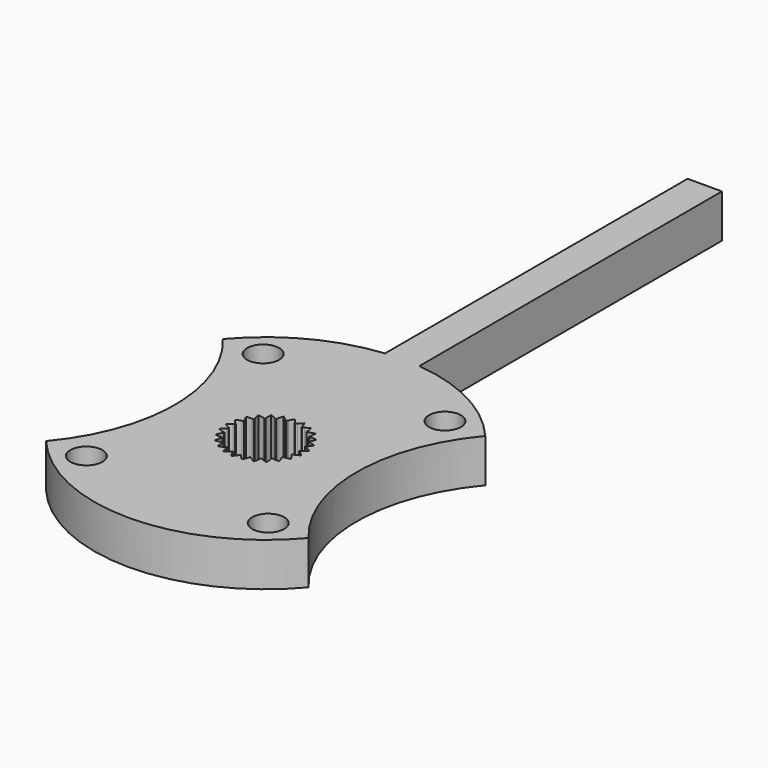
from build123d import *

# Parameters (mm, degrees)
PAD022_DEPTH            = 3.8
POCKET059_DEPTH         = 3.801
SKETCH089_R             = 1.4
POCKET060_DEPTH         = 3.801
SKETCH088_W             = 3
SKETCH088_H             = 34
PAD021_DEPTH            = 3.8
BODY011_ROLL_ANGLE      = -90
BODY011_PLACEMENT_ANGLE = -180


with BuildPart() as part:
    # CopySketch078 → Pad022 (new body)
    with BuildSketch(Plane(origin=(0, 0, 0), x_dir=(1, 0, 0), z_dir=(0, 1, 0))):
        with BuildLine():
            ThreePointArc((11.475, 9.660454), (0, 15), (-11.475, 9.660454))
            ThreePointArc((-11.475, -9.660454), (-7.95, 0), (-11.475, 9.660454))
            ThreePointArc((-11.475, -9.660454), (0, -15), (11.475, -9.660454))
            ThreePointArc((11.475, 9.660454), (7.95, 0), (11.475, -9.660454))
        make_face()
    extrude(amount=PAD022_DEPTH)

    # InvoluteGear002 (on Face6 of Pad022) → Pocket059 (cut, through all)
    with BuildSketch(Plane(origin=(0, 3.8, 0), x_dir=(1, 0, 0), z_dir=(0, 1, 0))):
        with BuildLine():
            add(Edge.make_bspline(
                [(2.935686, -0.341652), (2.980578, -0.323699), (3.028803, -0.301734), (3.079774, -0.27497)],
                knots=[0, 0, 0, 0, 1, 1, 1, 1], degree=3))
            add(Edge.make_bspline(
                [(3.079774, -0.27497), (3.19844, -0.212627), (3.33132, -0.124801), (3.469601, -0.002687)],
                knots=[0, 0, 0, 0, 1, 1, 1, 1], degree=3))
            ThreePointArc((3.469601, -0.002687), (3.469602, 0), (3.469601, 0.002687))
            add(Edge.make_bspline(
                [(3.469601, 0.002687), (3.33132, 0.124801), (3.19844, 0.212627), (3.079774, 0.27497)],
                knots=[0, 0, 0, 0, 1, 1, 1, 1], degree=3))
            add(Edge.make_bspline(
                [(3.079774, 0.27497), (3.028803, 0.301734), (2.980578, 0.323699), (2.93569, 0.341649)],
                knots=[0, 0, 0, 0, 1, 1, 1, 1], degree=3))
            ThreePointArc((2.93569, 0.341649), (2.92763, 0.369844), (2.928422, 0.399157))
            add(Edge.make_bspline(
                [(2.928422, 0.399157), (2.967439, 0.42771), (3.008686, 0.460978), (3.051399, 0.499577)],
                knots=[0, 0, 0, 0, 1, 1, 1, 1], degree=3))
            add(Edge.make_bspline(
                [(3.051399, 0.499577), (3.150833, 0.589473), (3.257697, 0.707585), (3.361265, 0.860253)],
                knots=[0, 0, 0, 0, 1, 1, 1, 1], degree=3))
            ThreePointArc((3.361265, 0.860253), (3.360598, 0.862855), (3.359929, 0.865457))
            add(Edge.make_bspline(
                [(3.359929, 0.865457), (3.195624, 0.949346), (3.045077, 1.001366), (2.914635, 1.03224)],
                knots=[0, 0, 0, 0, 1, 1, 1, 1], degree=3))
            add(Edge.make_bspline(
                [(2.914635, 1.03224), (2.858609, 1.045487), (2.806437, 1.054769), (2.758495, 1.060992)],
                knots=[0, 0, 0, 0, 1, 1, 1, 1], degree=3))
            ThreePointArc((2.758495, 1.060992), (2.743677, 1.086297), (2.737154, 1.114886))
            add(Edge.make_bspline(
                [(2.737154, 1.114886), (2.767844, 1.152245), (2.799522, 1.194725), (2.831294, 1.242734)],
                knots=[0, 0, 0, 0, 1, 1, 1, 1], degree=3))
            add(Edge.make_bspline(
                [(2.831294, 1.242734), (2.905248, 1.354534), (2.979382, 1.495511), (3.041729, 1.669139)],
                knots=[0, 0, 0, 0, 1, 1, 1, 1], degree=3))
            ThreePointArc((3.041729, 1.669139), (3.040436, 1.671494), (3.03914, 1.673847))
            add(Edge.make_bspline(
                [(3.03914, 1.673847), (2.859135, 1.71424), (2.700381, 1.727187), (2.566358, 1.724651)],
                knots=[0, 0, 0, 0, 1, 1, 1, 1], degree=3))
            add(Edge.make_bspline(
                [(2.566358, 1.724651), (2.508799, 1.723549), (2.455957, 1.719564), (2.407974, 1.713669)],
                knots=[0, 0, 0, 0, 1, 1, 1, 1], degree=3))
            ThreePointArc((2.407974, 1.713669), (2.387328, 1.734493), (2.3739, 1.760562))
            add(Edge.make_bspline(
                [(2.3739, 1.760562), (2.394335, 1.80438), (2.414453, 1.853403), (2.433289, 1.907806)],
                knots=[0, 0, 0, 0, 1, 1, 1, 1], degree=3))
            add(Edge.make_bspline(
                [(2.433289, 1.907806), (2.477116, 2.034485), (2.51386, 2.189469), (2.53107, 2.373147)],
                knots=[0, 0, 0, 0, 1, 1, 1, 1], degree=3))
            ThreePointArc((2.53107, 2.373147), (2.529231, 2.375106), (2.527391, 2.377064))
            add(Edge.make_bspline(
                [(2.527391, 2.377064), (2.342995, 2.371422), (2.186009, 2.344481), (2.056828, 2.308695)],
                knots=[0, 0, 0, 0, 1, 1, 1, 1], degree=3))
            add(Edge.make_bspline(
                [(2.056828, 2.308695), (2.001351, 2.293313), (1.951161, 2.276313), (1.906151, 2.25867)],
                knots=[0, 0, 0, 0, 1, 1, 1, 1], degree=3))
            ThreePointArc((1.906151, 2.25867), (1.880975, 2.273705), (1.861486, 2.295616))
            add(Edge.make_bspline(
                [(1.861486, 2.295616), (1.870382, 2.343139), (1.877676, 2.395626), (1.88239, 2.453003)],
                knots=[0, 0, 0, 0, 1, 1, 1, 1], degree=3))
            add(Edge.make_bspline(
                [(1.88239, 2.453003), (1.893337, 2.586601), (1.890384, 2.745855), (1.861374, 2.928042)],
                knots=[0, 0, 0, 0, 1, 1, 1, 1], degree=3))
            ThreePointArc((1.861374, 2.928042), (1.859106, 2.929482), (1.856837, 2.930921))
            add(Edge.make_bspline(
                [(1.856837, 2.930921), (1.679637, 2.879599), (1.534283, 2.814463), (1.41806, 2.747675)],
                knots=[0, 0, 0, 0, 1, 1, 1, 1], degree=3))
            add(Edge.make_bspline(
                [(1.41806, 2.747675), (1.368151, 2.71898), (1.323765, 2.690032), (1.284557, 2.66175)],
                knots=[0, 0, 0, 0, 1, 1, 1, 1], degree=3))
            ThreePointArc((1.284557, 2.66175), (1.256433, 2.670052), (1.232107, 2.686427))
            add(Edge.make_bspline(
                [(1.232107, 2.686427), (1.228906, 2.73467), (1.222918, 2.787322), (1.213215, 2.844069)],
                knots=[0, 0, 0, 0, 1, 1, 1, 1], degree=3))
            add(Edge.make_bspline(
                [(1.213215, 2.844069), (1.190592, 2.976192), (1.148128, 3.129708), (1.074721, 3.298957)],
                knots=[0, 0, 0, 0, 1, 1, 1, 1], degree=3))
            ThreePointArc((1.074721, 3.298957), (1.072166, 3.299788), (1.069611, 3.300617))
            add(Edge.make_bspline(
                [(1.069611, 3.300617), (0.910741, 3.20684), (0.786152, 3.107603), (0.69019, 3.014009)],
                knots=[0, 0, 0, 0, 1, 1, 1, 1], degree=3))
            add(Edge.make_bspline(
                [(0.69019, 3.014009), (0.648985, 2.973804), (0.613193, 2.934727), (0.58225, 2.897583)],
                knots=[0, 0, 0, 0, 1, 1, 1, 1], degree=3))
            ThreePointArc((0.58225, 2.897583), (0.552945, 2.89863), (0.525311, 2.908441))
            add(Edge.make_bspline(
                [(0.525311, 2.908441), (0.510213, 2.954372), (0.491319, 3.00388), (0.467808, 3.056431)],
                knots=[0, 0, 0, 0, 1, 1, 1, 1], degree=3))
            add(Edge.make_bspline(
                [(0.467808, 3.056431), (0.413039, 3.178778), (0.33373, 3.31691), (0.220539, 3.462586)],
                knots=[0, 0, 0, 0, 1, 1, 1, 1], degree=3))
            ThreePointArc((0.220539, 3.462586), (0.217858, 3.462756), (0.215177, 3.462923))
            add(Edge.make_bspline(
                [(0.215177, 3.462923), (0.08462, 3.332583), (-0.011376, 3.20548), (-0.081047, 3.090962)],
                knots=[0, 0, 0, 0, 1, 1, 1, 1], degree=3))
            add(Edge.make_bspline(
                [(-0.081047, 3.090962), (-0.110959, 3.041772), (-0.135908, 2.995022), (-0.156642, 2.95135)],
                knots=[0, 0, 0, 0, 1, 1, 1, 1], degree=3))
            ThreePointArc((-0.156642, 2.95135), (-0.185287, 2.945076), (-0.214492, 2.947706))
            add(Edge.make_bspline(
                [(-0.214492, 2.947706), (-0.240539, 2.988439), (-0.271151, 3.031694), (-0.306992, 3.076747)],
                knots=[0, 0, 0, 0, 1, 1, 1, 1], degree=3))
            add(Edge.make_bspline(
                [(-0.306992, 3.076747), (-0.390467, 3.181629), (-0.501636, 3.295699), (-0.647499, 3.408648)],
                knots=[0, 0, 0, 0, 1, 1, 1, 1], degree=3))
            ThreePointArc((-0.647499, 3.408648), (-0.650139, 3.408146), (-0.652777, 3.407642))
            add(Edge.make_bspline(
                [(-0.652777, 3.407642), (-0.746818, 3.248928), (-0.808189, 3.101945), (-0.847192, 2.973698)],
                knots=[0, 0, 0, 0, 1, 1, 1, 1], degree=3))
            add(Edge.make_bspline(
                [(-0.847192, 2.973698), (-0.863931, 2.918615), (-0.87647, 2.867129), (-0.885691, 2.819672)],
                knots=[0, 0, 0, 0, 1, 1, 1, 1], degree=3))
            ThreePointArc((-0.885691, 2.819672), (-0.911876, 2.806472), (-0.940819, 2.801757))
            add(Edge.make_bspline(
                [(-0.940819, 2.801757), (-0.976177, 2.834732), (-1.016584, 2.869015), (-1.062503, 2.903739)],
                knots=[0, 0, 0, 0, 1, 1, 1, 1], degree=3))
            add(Edge.make_bspline(
                [(-1.062503, 2.903739), (-1.169439, 2.984567), (-1.305483, 3.067406), (-1.474853, 3.140533)],
                knots=[0, 0, 0, 0, 1, 1, 1, 1], degree=3))
            ThreePointArc((-1.474853, 3.140533), (-1.477285, 3.13939), (-1.479715, 3.138245))
            add(Edge.make_bspline(
                [(-1.479715, 3.138245), (-1.531331, 2.961131), (-1.55422, 2.803503), (-1.560104, 2.669586)],
                knots=[0, 0, 0, 0, 1, 1, 1, 1], degree=3))
            add(Edge.make_bspline(
                [(-1.560104, 2.669586), (-1.562619, 2.612071), (-1.56196, 2.559083), (-1.55909, 2.510825)],
                knots=[0, 0, 0, 0, 1, 1, 1, 1], degree=3))
            ThreePointArc((-1.55909, 2.510825), (-1.581169, 2.491527), (-1.60803, 2.479762))
            add(Edge.make_bspline(
                [(-1.60803, 2.479762), (-1.650478, 2.502909), (-1.698141, 2.526065), (-1.751254, 2.548279)],
                knots=[0, 0, 0, 0, 1, 1, 1, 1], degree=3))
            add(Edge.make_bspline(
                [(-1.751254, 2.548279), (-1.874931, 2.599974), (-2.027302, 2.646378), (-2.209537, 2.675086)],
                knots=[0, 0, 0, 0, 1, 1, 1, 1], degree=3))
            ThreePointArc((-2.209537, 2.675086), (-2.211608, 2.673374), (-2.213677, 2.671661))
            add(Edge.make_bspline(
                [(-2.213677, 2.671661), (-2.219625, 2.487275), (-2.202594, 2.328907), (-2.17499, 2.197734)],
                knots=[0, 0, 0, 0, 1, 1, 1, 1], degree=3))
            add(Edge.make_bspline(
                [(-2.17499, 2.197734), (-2.163122, 2.1414), (-2.149307, 2.090241), (-2.134525, 2.044213)],
                knots=[0, 0, 0, 0, 1, 1, 1, 1], degree=3))
            ThreePointArc((-2.134525, 2.044213), (-2.151111, 2.02003), (-2.174202, 2.001955))
            add(Edge.make_bspline(
                [(-2.174202, 2.001955), (-2.221073, 2.013818), (-2.272998, 2.024394), (-2.329966, 2.032701)],
                knots=[0, 0, 0, 0, 1, 1, 1, 1], degree=3))
            add(Edge.make_bspline(
                [(-2.329966, 2.032701), (-2.462613, 2.052015), (-2.621738, 2.059067), (-2.805387, 2.041554)],
                knots=[0, 0, 0, 0, 1, 1, 1, 1], degree=3))
            ThreePointArc((-2.805387, 2.041554), (-2.806967, 2.039381), (-2.808545, 2.037207))
            add(Edge.make_bspline(
                [(-2.808545, 2.037207), (-2.768451, 1.857134), (-2.712571, 1.707977), (-2.653213, 1.58779)],
                knots=[0, 0, 0, 0, 1, 1, 1, 1], degree=3))
            add(Edge.make_bspline(
                [(-2.653213, 1.58779), (-2.627708, 1.536178), (-2.601604, 1.490062), (-2.57584, 1.449155)],
                knots=[0, 0, 0, 0, 1, 1, 1, 1], degree=3))
            ThreePointArc((-2.57584, 1.449155), (-2.585891, 1.421608), (-2.603762, 1.398358))
            add(Edge.make_bspline(
                [(-2.603762, 1.398358), (-2.65211, 1.398192), (-2.705034, 1.395522), (-2.762278, 1.389401)],
                knots=[0, 0, 0, 0, 1, 1, 1, 1], degree=3))
            add(Edge.make_bspline(
                [(-2.762278, 1.389401), (-2.895561, 1.37512), (-3.051441, 1.342378), (-3.224965, 1.279743)],
                knots=[0, 0, 0, 0, 1, 1, 1, 1], degree=3))
            ThreePointArc((-3.224965, 1.279743), (-3.225955, 1.277246), (-3.226943, 1.274748))
            add(Edge.make_bspline(
                [(-3.226943, 1.274748), (-3.143326, 1.110303), (-3.052108, 0.979729), (-2.964725, 0.87808)],
                knots=[0, 0, 0, 0, 1, 1, 1, 1], degree=3))
            add(Edge.make_bspline(
                [(-2.964725, 0.87808), (-2.927185, 0.834431), (-2.890433, 0.796256), (-2.855305, 0.763042)],
                knots=[0, 0, 0, 0, 1, 1, 1, 1], degree=3))
            ThreePointArc((-2.855305, 0.763042), (-2.85819, 0.73386), (-2.869717, 0.706897))
            add(Edge.make_bspline(
                [(-2.869717, 0.706897), (-2.916505, 0.694712), (-2.967102, 0.678965), (-3.021026, 0.6588)],
                knots=[0, 0, 0, 0, 1, 1, 1, 1], degree=3))
            add(Edge.make_bspline(
                [(-3.021026, 0.6588), (-3.14657, 0.611821), (-3.28941, 0.541342), (-3.441906, 0.437522)],
                knots=[0, 0, 0, 0, 1, 1, 1, 1], degree=3))
            ThreePointArc((-3.441906, 0.437522), (-3.442243, 0.434856), (-3.442579, 0.432191))
            add(Edge.make_bspline(
                [(-3.442579, 0.432191), (-3.320693, 0.293708), (-3.199869, 0.189921), (-3.089952, 0.113196)],
                knots=[0, 0, 0, 0, 1, 1, 1, 1], degree=3))
            add(Edge.make_bspline(
                [(-3.089952, 0.113196), (-3.042737, 0.080255), (-2.997646, 0.052419), (-2.955362, 0.028984)],
                knots=[0, 0, 0, 0, 1, 1, 1, 1], degree=3))
            ThreePointArc((-2.955362, 0.028984), (-2.950899, 2e-06), (-2.955358, -0.028981))
            add(Edge.make_bspline(
                [(-2.955358, -0.028981), (-2.997646, -0.052419), (-3.042737, -0.080255), (-3.089952, -0.113196)],
                knots=[0, 0, 0, 0, 1, 1, 1, 1], degree=3))
            add(Edge.make_bspline(
                [(-3.089952, -0.113196), (-3.199869, -0.189921), (-3.320693, -0.293708), (-3.442579, -0.432191)],
                knots=[0, 0, 0, 0, 1, 1, 1, 1], degree=3))
            ThreePointArc((-3.442579, -0.432191), (-3.442243, -0.434856), (-3.441906, -0.437522))
            add(Edge.make_bspline(
                [(-3.441906, -0.437522), (-3.28941, -0.541342), (-3.14657, -0.611821), (-3.021026, -0.6588)],
                knots=[0, 0, 0, 0, 1, 1, 1, 1], degree=3))
            add(Edge.make_bspline(
                [(-3.021026, -0.6588), (-2.967102, -0.678965), (-2.916505, -0.694712), (-2.869721, -0.706895)],
                knots=[0, 0, 0, 0, 1, 1, 1, 1], degree=3))
            ThreePointArc((-2.869721, -0.706895), (-2.858191, -0.733857), (-2.855303, -0.763038))
            add(Edge.make_bspline(
                [(-2.855303, -0.763038), (-2.890433, -0.796256), (-2.927185, -0.834431), (-2.964725, -0.87808)],
                knots=[0, 0, 0, 0, 1, 1, 1, 1], degree=3))
            add(Edge.make_bspline(
                [(-2.964725, -0.87808), (-3.052108, -0.979729), (-3.143326, -1.110303), (-3.226943, -1.274748)],
                knots=[0, 0, 0, 0, 1, 1, 1, 1], degree=3))
            ThreePointArc((-3.226943, -1.274748), (-3.225955, -1.277246), (-3.224965, -1.279743))
            add(Edge.make_bspline(
                [(-3.224965, -1.279743), (-3.051441, -1.342378), (-2.895561, -1.37512), (-2.762278, -1.389401)],
                knots=[0, 0, 0, 0, 1, 1, 1, 1], degree=3))
            add(Edge.make_bspline(
                [(-2.762278, -1.389401), (-2.705034, -1.395522), (-2.65211, -1.398192), (-2.603766, -1.398357)],
                knots=[0, 0, 0, 0, 1, 1, 1, 1], degree=3))
            ThreePointArc((-2.603766, -1.398357), (-2.585893, -1.421605), (-2.575838, -1.449151))
            add(Edge.make_bspline(
                [(-2.575838, -1.449151), (-2.601604, -1.490062), (-2.627708, -1.536178), (-2.653213, -1.58779)],
                knots=[0, 0, 0, 0, 1, 1, 1, 1], degree=3))
            add(Edge.make_bspline(
                [(-2.653213, -1.58779), (-2.712571, -1.707977), (-2.768451, -1.857134), (-2.808545, -2.037207)],
                knots=[0, 0, 0, 0, 1, 1, 1, 1], degree=3))
            ThreePointArc((-2.808545, -2.037207), (-2.806967, -2.039381), (-2.805387, -2.041554))
            add(Edge.make_bspline(
                [(-2.805387, -2.041554), (-2.621738, -2.059067), (-2.462613, -2.052015), (-2.329966, -2.032701)],
                knots=[0, 0, 0, 0, 1, 1, 1, 1], degree=3))
            add(Edge.make_bspline(
                [(-2.329966, -2.032701), (-2.272998, -2.024394), (-2.221073, -2.013818), (-2.174207, -2.001956)],
                knots=[0, 0, 0, 0, 1, 1, 1, 1], degree=3))
            ThreePointArc((-2.174207, -2.001956), (-2.151114, -2.020028), (-2.134524, -2.044208))
            add(Edge.make_bspline(
                [(-2.134524, -2.044208), (-2.149307, -2.090241), (-2.163122, -2.1414), (-2.17499, -2.197734)],
                knots=[0, 0, 0, 0, 1, 1, 1, 1], degree=3))
            add(Edge.make_bspline(
                [(-2.17499, -2.197734), (-2.202594, -2.328907), (-2.219625, -2.487275), (-2.213677, -2.671661)],
                knots=[0, 0, 0, 0, 1, 1, 1, 1], degree=3))
            ThreePointArc((-2.213677, -2.671661), (-2.211608, -2.673374), (-2.209537, -2.675086))
            add(Edge.make_bspline(
                [(-2.209537, -2.675086), (-2.027302, -2.646378), (-1.874931, -2.599974), (-1.751254, -2.548279)],
                knots=[0, 0, 0, 0, 1, 1, 1, 1], degree=3))
            add(Edge.make_bspline(
                [(-1.751254, -2.548279), (-1.698141, -2.526065), (-1.650478, -2.502909), (-1.608034, -2.479764)],
                knots=[0, 0, 0, 0, 1, 1, 1, 1], degree=3))
            ThreePointArc((-1.608034, -2.479764), (-1.581172, -2.491525), (-1.55909, -2.51082))
            add(Edge.make_bspline(
                [(-1.55909, -2.51082), (-1.56196, -2.559083), (-1.562619, -2.612071), (-1.560104, -2.669586)],
                knots=[0, 0, 0, 0, 1, 1, 1, 1], degree=3))
            add(Edge.make_bspline(
                [(-1.560104, -2.669586), (-1.55422, -2.803503), (-1.531331, -2.961131), (-1.479715, -3.138245)],
                knots=[0, 0, 0, 0, 1, 1, 1, 1], degree=3))
            ThreePointArc((-1.479715, -3.138245), (-1.477285, -3.13939), (-1.474853, -3.140533))
            add(Edge.make_bspline(
                [(-1.474853, -3.140533), (-1.305483, -3.067406), (-1.169439, -2.984567), (-1.062503, -2.903739)],
                knots=[0, 0, 0, 0, 1, 1, 1, 1], degree=3))
            add(Edge.make_bspline(
                [(-1.062503, -2.903739), (-1.016584, -2.869015), (-0.976177, -2.834732), (-0.940822, -2.801759)],
                knots=[0, 0, 0, 0, 1, 1, 1, 1], degree=3))
            ThreePointArc((-0.940822, -2.801759), (-0.911879, -2.806471), (-0.885693, -2.819668))
            add(Edge.make_bspline(
                [(-0.885693, -2.819668), (-0.87647, -2.867129), (-0.863931, -2.918615), (-0.847192, -2.973698)],
                knots=[0, 0, 0, 0, 1, 1, 1, 1], degree=3))
            add(Edge.make_bspline(
                [(-0.847192, -2.973698), (-0.808189, -3.101945), (-0.746818, -3.248928), (-0.652777, -3.407642)],
                knots=[0, 0, 0, 0, 1, 1, 1, 1], degree=3))
            ThreePointArc((-0.652777, -3.407642), (-0.650139, -3.408146), (-0.647499, -3.408648))
            add(Edge.make_bspline(
                [(-0.647499, -3.408648), (-0.501636, -3.295699), (-0.390467, -3.181629), (-0.306992, -3.076747)],
                knots=[0, 0, 0, 0, 1, 1, 1, 1], degree=3))
            add(Edge.make_bspline(
                [(-0.306992, -3.076747), (-0.271151, -3.031694), (-0.240539, -2.988439), (-0.214496, -2.94771)],
                knots=[0, 0, 0, 0, 1, 1, 1, 1], degree=3))
            ThreePointArc((-0.214496, -2.94771), (-0.18529, -2.945075), (-0.156645, -2.951346))
            add(Edge.make_bspline(
                [(-0.156645, -2.951346), (-0.135908, -2.995022), (-0.110959, -3.041772), (-0.081047, -3.090962)],
                knots=[0, 0, 0, 0, 1, 1, 1, 1], degree=3))
            add(Edge.make_bspline(
                [(-0.081047, -3.090962), (-0.011376, -3.20548), (0.08462, -3.332583), (0.215177, -3.462923)],
                knots=[0, 0, 0, 0, 1, 1, 1, 1], degree=3))
            ThreePointArc((0.215177, -3.462923), (0.217858, -3.462756), (0.220539, -3.462586))
            add(Edge.make_bspline(
                [(0.220539, -3.462586), (0.33373, -3.31691), (0.413039, -3.178778), (0.467808, -3.056431)],
                knots=[0, 0, 0, 0, 1, 1, 1, 1], degree=3))
            add(Edge.make_bspline(
                [(0.467808, -3.056431), (0.491319, -3.00388), (0.510213, -2.954372), (0.525309, -2.908445)],
                knots=[0, 0, 0, 0, 1, 1, 1, 1], degree=3))
            ThreePointArc((0.525309, -2.908445), (0.552942, -2.89863), (0.582247, -2.89758))
            add(Edge.make_bspline(
                [(0.582247, -2.89758), (0.613193, -2.934727), (0.648985, -2.973804), (0.69019, -3.014009)],
                knots=[0, 0, 0, 0, 1, 1, 1, 1], degree=3))
            add(Edge.make_bspline(
                [(0.69019, -3.014009), (0.786152, -3.107603), (0.910741, -3.20684), (1.069611, -3.300617)],
                knots=[0, 0, 0, 0, 1, 1, 1, 1], degree=3))
            ThreePointArc((1.069611, -3.300617), (1.072166, -3.299788), (1.074721, -3.298957))
            add(Edge.make_bspline(
                [(1.074721, -3.298957), (1.148128, -3.129708), (1.190592, -2.976192), (1.213215, -2.844069)],
                knots=[0, 0, 0, 0, 1, 1, 1, 1], degree=3))
            add(Edge.make_bspline(
                [(1.213215, -2.844069), (1.222918, -2.787322), (1.228906, -2.73467), (1.232106, -2.686432)],
                knots=[0, 0, 0, 0, 1, 1, 1, 1], degree=3))
            ThreePointArc((1.232106, -2.686432), (1.25643, -2.670054), (1.284553, -2.661748))
            add(Edge.make_bspline(
                [(1.284553, -2.661748), (1.323765, -2.690032), (1.368151, -2.71898), (1.41806, -2.747675)],
                knots=[0, 0, 0, 0, 1, 1, 1, 1], degree=3))
            add(Edge.make_bspline(
                [(1.41806, -2.747675), (1.534283, -2.814463), (1.679637, -2.879599), (1.856837, -2.930921)],
                knots=[0, 0, 0, 0, 1, 1, 1, 1], degree=3))
            ThreePointArc((1.856837, -2.930921), (1.859106, -2.929482), (1.861374, -2.928042))
            add(Edge.make_bspline(
                [(1.861374, -2.928042), (1.890384, -2.745855), (1.893337, -2.586601), (1.88239, -2.453003)],
                knots=[0, 0, 0, 0, 1, 1, 1, 1], degree=3))
            add(Edge.make_bspline(
                [(1.88239, -2.453003), (1.877676, -2.395626), (1.870382, -2.343139), (1.861486, -2.29562)],
                knots=[0, 0, 0, 0, 1, 1, 1, 1], degree=3))
            ThreePointArc((1.861486, -2.29562), (1.880972, -2.273708), (1.906146, -2.258669))
            add(Edge.make_bspline(
                [(1.906146, -2.258669), (1.951161, -2.276313), (2.001351, -2.293313), (2.056828, -2.308695)],
                knots=[0, 0, 0, 0, 1, 1, 1, 1], degree=3))
            add(Edge.make_bspline(
                [(2.056828, -2.308695), (2.186009, -2.344481), (2.342995, -2.371422), (2.527391, -2.377064)],
                knots=[0, 0, 0, 0, 1, 1, 1, 1], degree=3))
            ThreePointArc((2.527391, -2.377064), (2.529231, -2.375106), (2.53107, -2.373147))
            add(Edge.make_bspline(
                [(2.53107, -2.373147), (2.51386, -2.189469), (2.477116, -2.034485), (2.433289, -1.907806)],
                knots=[0, 0, 0, 0, 1, 1, 1, 1], degree=3))
            add(Edge.make_bspline(
                [(2.433289, -1.907806), (2.414453, -1.853403), (2.394335, -1.80438), (2.373901, -1.760567)],
                knots=[0, 0, 0, 0, 1, 1, 1, 1], degree=3))
            ThreePointArc((2.373901, -1.760567), (2.387326, -1.734496), (2.407969, -1.71367))
            add(Edge.make_bspline(
                [(2.407969, -1.71367), (2.455957, -1.719564), (2.508799, -1.723549), (2.566358, -1.724651)],
                knots=[0, 0, 0, 0, 1, 1, 1, 1], degree=3))
            add(Edge.make_bspline(
                [(2.566358, -1.724651), (2.700381, -1.727187), (2.859135, -1.71424), (3.03914, -1.673847)],
                knots=[0, 0, 0, 0, 1, 1, 1, 1], degree=3))
            ThreePointArc((3.03914, -1.673847), (3.040436, -1.671494), (3.041729, -1.669139))
            add(Edge.make_bspline(
                [(3.041729, -1.669139), (2.979382, -1.495511), (2.905248, -1.354534), (2.831294, -1.242734)],
                knots=[0, 0, 0, 0, 1, 1, 1, 1], degree=3))
            add(Edge.make_bspline(
                [(2.831294, -1.242734), (2.799522, -1.194725), (2.767844, -1.152245), (2.737156, -1.11489)],
                knots=[0, 0, 0, 0, 1, 1, 1, 1], degree=3))
            ThreePointArc((2.737156, -1.11489), (2.743675, -1.0863), (2.758491, -1.060994))
            add(Edge.make_bspline(
                [(2.758491, -1.060994), (2.806437, -1.054769), (2.858609, -1.045487), (2.914635, -1.03224)],
                knots=[0, 0, 0, 0, 1, 1, 1, 1], degree=3))
            add(Edge.make_bspline(
                [(2.914635, -1.03224), (3.045077, -1.001366), (3.195624, -0.949346), (3.359929, -0.865457)],
                knots=[0, 0, 0, 0, 1, 1, 1, 1], degree=3))
            ThreePointArc((3.359929, -0.865457), (3.360598, -0.862855), (3.361265, -0.860253))
            add(Edge.make_bspline(
                [(3.361265, -0.860253), (3.257697, -0.707585), (3.150833, -0.589473), (3.051399, -0.499577)],
                knots=[0, 0, 0, 0, 1, 1, 1, 1], degree=3))
            add(Edge.make_bspline(
                [(3.051399, -0.499577), (3.008686, -0.460978), (2.967439, -0.42771), (2.928425, -0.399161)],
                knots=[0, 0, 0, 0, 1, 1, 1, 1], degree=3))
            ThreePointArc((2.928425, -0.399161), (2.92763, -0.369847), (2.935686, -0.341652))
        make_face()
    extrude(amount=-POCKET059_DEPTH, mode=Mode.SUBTRACT)

    # Sketch089 (on Face5 of Pocket059) → Pocket060 (cut, through all)
    with BuildSketch(Plane(origin=(0, 3.8, 0), x_dir=(1, 0, 0), z_dir=(0, 1, 0))):
        with Locations((-7.95, 9.660454)):
            Circle(SKETCH089_R)
        with Locations((7.95, 9.660454)):
            Circle(SKETCH089_R)
        with Locations((-7.95, -9.660454)):
            Circle(SKETCH089_R)
        with Locations((7.95, -9.660454)):
            Circle(SKETCH089_R)
    extrude(amount=-POCKET060_DEPTH, mode=Mode.SUBTRACT)

    # Sketch088 (on Face5 of Pocket060) → Pad021 (join)
    with BuildSketch(Plane(origin=(0, 3.8, 0), x_dir=(1, 0, 0), z_dir=(0, 1, 0))):
        with Locations((0, 31)):
            Rectangle(SKETCH088_W, SKETCH088_H)
    extrude(amount=-PAD021_DEPTH)


with BuildPart() as part_1:
    # Body011 roll: moved
    add(part.part.rotate(Axis((0, 0, 0), (1, 0, 0)), BODY011_ROLL_ANGLE))


with BuildPart() as part_2:
    # Body011 placement: moved
    add(part_1.part.moved(Location((75.1, 74.9, 43.3))).rotate(Axis((75.1, 74.9, 43.3), (0, 0, 1)), BODY011_PLACEMENT_ANGLE))


solid = part_2.part
